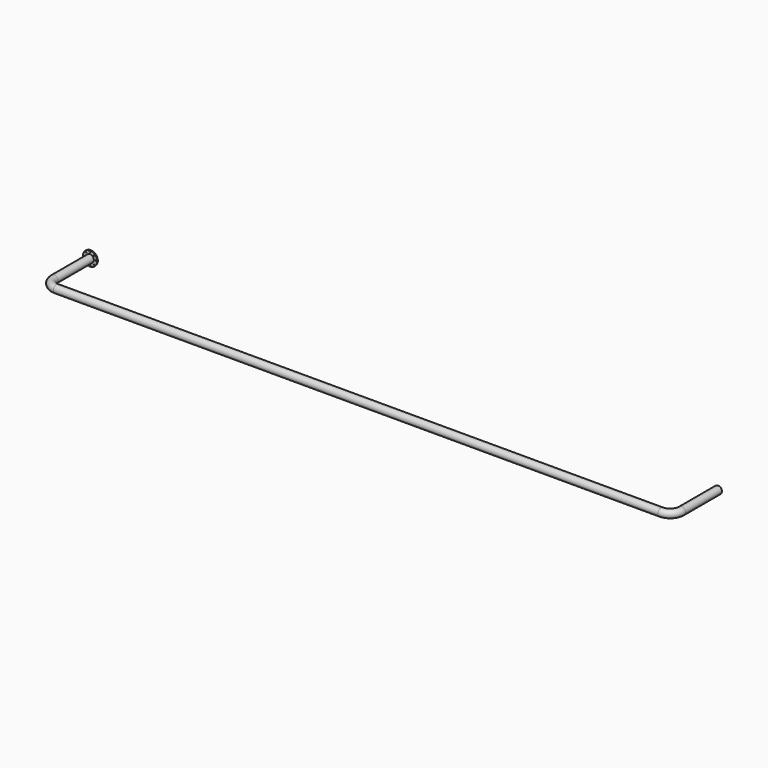
from build123d import *

# Parameters (mm, degrees)
F2_R      = 67.5
F2_R_2    = 125
F2_R_3    = 9
F3_FACE_R = 67.5
F4_DEPTH  = 15


with BuildPart() as f3:
    # F3: sweep along a path in F0
    with BuildLine(Plane.XY) as f3_path:
        Line((0, 1000), (0, 200))
        ThreePointArc((0, 200), (58.5786437627, 58.5786437627), (200, 0))
        Line((200, 0), (10800, 0))
        ThreePointArc((10800, 0), (10941.4213562373, 58.5786437627), (11000, 200))
        Line((11000, 200), (11000, 1000))
    # F2 (on offset) → F3 (sweep)
    with BuildSketch(Plane.XZ.offset(-1000)):
        Circle(F2_R)
    sweep(path=f3_path.line)

    # F2 (on offset) + F3_face (on face) → F4 (join)
    with BuildSketch(Plane.XZ.offset(-1000)):
        Circle(F2_R_2)
        with Locations((-74.2462120246, -74.2462120246)):
            Circle(F2_R_3, mode=Mode.SUBTRACT)
        with Locations((0, -105)):
            Circle(F2_R_3, mode=Mode.SUBTRACT)
        with Locations((74.2462120246, -74.2462120246)):
            Circle(F2_R_3, mode=Mode.SUBTRACT)
        with Locations((-105, 0)):
            Circle(F2_R_3, mode=Mode.SUBTRACT)
        with Locations((-74.2462120246, 74.2462120246)):
            Circle(F2_R_3, mode=Mode.SUBTRACT)
        Circle(F2_R, mode=Mode.SUBTRACT)
        with Locations((105, 0)):
            Circle(F2_R_3, mode=Mode.SUBTRACT)
        with Locations((0, 105)):
            Circle(F2_R_3, mode=Mode.SUBTRACT)
        with Locations((74.2462120246, 74.2462120246)):
            Circle(F2_R_3, mode=Mode.SUBTRACT)
    with BuildSketch(Plane(origin=(0, 1000, 0), x_dir=(-1, 0, 0), z_dir=(0, 1, 0))):
        Circle(F3_FACE_R)
    extrude(amount=F4_DEPTH, dir=(0, -1, 0))


solid = f3.part
